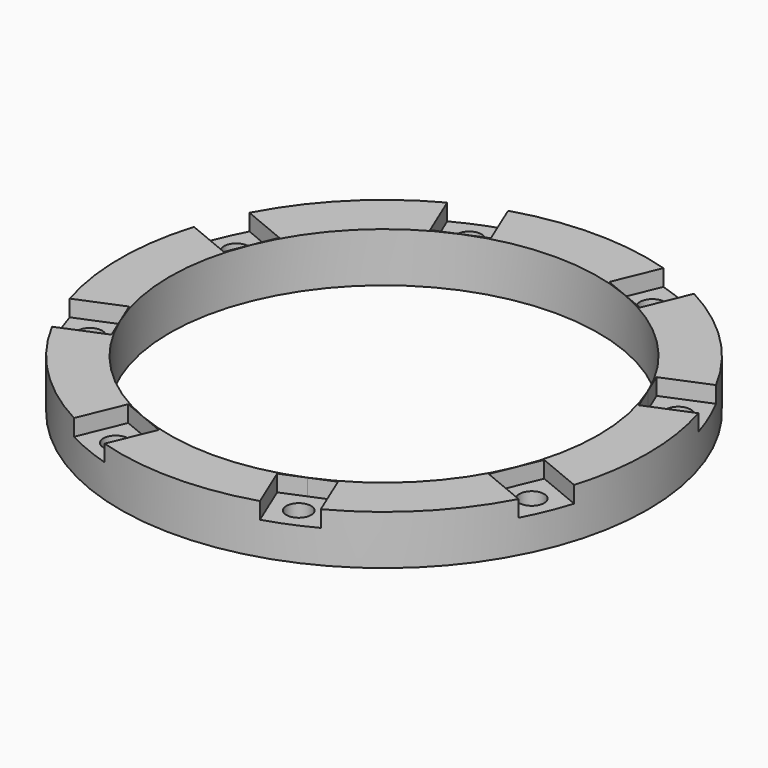
from build123d import *

# Parameters (mm, degrees)
CYLINDER1945_R               = 1.5
CYLINDER1945_DEPTH           = 20
CYLINDER1945_PLACEMENT_ANGLE = 67.5
CYLINDER1943_R               = 1.5
CYLINDER1943_DEPTH           = 20
CYLINDER1943_PLACEMENT_ANGLE = 112.5
CYLINDER1936_R               = 1.5
CYLINDER1936_DEPTH           = 20
CYLINDER1936_PLACEMENT_ANGLE = 157.5
CYLINDER1952_R               = 1.5
CYLINDER1952_DEPTH           = 20
CYLINDER1952_PLACEMENT_ANGLE = 202.5
CYLINDER1946_R               = 1.5
CYLINDER1946_DEPTH           = 20
CYLINDER1946_PLACEMENT_ANGLE = -112.5
CYLINDER1938_R               = 1.5
CYLINDER1938_DEPTH           = 20
CYLINDER1938_PLACEMENT_ANGLE = 67.5
CYLINDER1935_R               = 1.5
CYLINDER1935_DEPTH           = 20
CYLINDER1935_PLACEMENT_ANGLE = 22.5
CYLINDER1941_R               = 1.5
CYLINDER1941_DEPTH           = 20
CYLINDER1941_PLACEMENT_ANGLE = 22.5
BOX442_W                     = 6
BOX442_H                     = 6
BOX442_DEPTH                 = 2
BOX442_PLACEMENT_ANGLE       = 67.5
BOX437_W                     = 6
BOX437_H                     = 6
BOX437_DEPTH                 = 2
BOX437_PLACEMENT_ANGLE       = 112.5
BOX447_W                     = 6
BOX447_H                     = 6
BOX447_DEPTH                 = 2
BOX447_PLACEMENT_ANGLE       = 157.5
BOX445_W                     = 6
BOX445_H                     = 6
BOX445_DEPTH                 = 2
BOX445_PLACEMENT_ANGLE       = 202.5
BOX446_W                     = 6
BOX446_H                     = 6
BOX446_DEPTH                 = 2
BOX446_PLACEMENT_ANGLE       = -112.5
BOX449_W                     = 6
BOX449_H                     = 6
BOX449_DEPTH                 = 2
BOX449_PLACEMENT_ANGLE       = 67.5
BOX440_W                     = 6
BOX440_H                     = 6
BOX440_DEPTH                 = 2
BOX440_PLACEMENT_ANGLE       = 22.5
BOX443_W                     = 6
BOX443_H                     = 6
BOX443_DEPTH                 = 2
BOX443_PLACEMENT_ANGLE       = 22.5
TUBE085_R                    = 32
TUBE085_R_2                  = 26
TUBE085_DEPTH                = 6


with BuildPart() as obj1:
    # Cylinder1945 → Cylinder1945 (new body)
    with BuildSketch(Plane.XY):
        Circle(CYLINDER1945_R)
    extrude(amount=CYLINDER1945_DEPTH)


with BuildPart() as obj1_1:
    # Cylinder1945 placement: moved
    add(obj1.part.moved(Location((11.09782, 26.792506, -10))).rotate(Axis((11.09782, 26.792506, -10), (0, 0, 1)), CYLINDER1945_PLACEMENT_ANGLE))


with BuildPart() as obj2:
    # Cylinder1943 → Cylinder1943 (new body)
    with BuildSketch(Plane.XY):
        Circle(CYLINDER1943_R)
    extrude(amount=CYLINDER1943_DEPTH)


with BuildPart() as obj2_1:
    # Cylinder1943 placement: moved
    add(obj2.part.moved(Location((-11.09782, 26.792506, -10))).rotate(Axis((-11.09782, 26.792506, -10), (0, 0, 1)), CYLINDER1943_PLACEMENT_ANGLE))


with BuildPart() as obj3:
    # Cylinder1936 → Cylinder1936 (new body)
    with BuildSketch(Plane.XY):
        Circle(CYLINDER1936_R)
    extrude(amount=CYLINDER1936_DEPTH)


with BuildPart() as obj3_1:
    # Cylinder1936 placement: moved
    add(obj3.part.moved(Location((-26.792506, 11.09782, -10))).rotate(Axis((-26.792506, 11.09782, -10), (0, 0, 1)), CYLINDER1936_PLACEMENT_ANGLE))


with BuildPart() as obj4:
    # Cylinder1952 → Cylinder1952 (new body)
    with BuildSketch(Plane.XY):
        Circle(CYLINDER1952_R)
    extrude(amount=CYLINDER1952_DEPTH)


with BuildPart() as obj4_1:
    # Cylinder1952 placement: moved
    add(obj4.part.moved(Location((-26.792506, -11.09782, -10))).rotate(Axis((-26.792506, -11.09782, -10), (0, 0, 1)), CYLINDER1952_PLACEMENT_ANGLE))


with BuildPart() as obj5:
    # Cylinder1946 → Cylinder1946 (new body)
    with BuildSketch(Plane.XY):
        Circle(CYLINDER1946_R)
    extrude(amount=CYLINDER1946_DEPTH)


with BuildPart() as obj5_1:
    # Cylinder1946 placement: moved
    add(obj5.part.moved(Location((-11.09782, -26.792506, -10))).rotate(Axis((-11.09782, -26.792506, -10), (0, 0, 1)), CYLINDER1946_PLACEMENT_ANGLE))


with BuildPart() as obj6:
    # Cylinder1938 → Cylinder1938 (new body)
    with BuildSketch(Plane.XY):
        Circle(CYLINDER1938_R)
    extrude(amount=CYLINDER1938_DEPTH)


with BuildPart() as obj6_1:
    # Cylinder1938 placement: moved
    add(obj6.part.moved(Location((11.09782, -26.792506, -10))).rotate(Axis((11.09782, -26.792506, -10), (0, 0, -1)), CYLINDER1938_PLACEMENT_ANGLE))


with BuildPart() as obj7:
    # Cylinder1935 → Cylinder1935 (new body)
    with BuildSketch(Plane.XY):
        Circle(CYLINDER1935_R)
    extrude(amount=CYLINDER1935_DEPTH)


with BuildPart() as obj7_1:
    # Cylinder1935 placement: moved
    add(obj7.part.moved(Location((26.792506, -11.09782, -10))).rotate(Axis((26.792506, -11.09782, -10), (0, 0, -1)), CYLINDER1935_PLACEMENT_ANGLE))


with BuildPart() as compound883:
    # Cylinder1941 → Cylinder1941 (new body)
    with BuildSketch(Plane.XY):
        Circle(CYLINDER1941_R)
    extrude(amount=CYLINDER1941_DEPTH)


with BuildPart() as compound883_1:
    # Cylinder1941 placement: moved
    add(compound883.part.moved(Location((26.792506, 11.09782, -10))).rotate(Axis((26.792506, 11.09782, -10), (0, 0, 1)), CYLINDER1941_PLACEMENT_ANGLE))

    # Compound883: union obj1, obj2, obj3, obj4, obj5, obj6, obj7
    add(obj1_1.part)
    add(obj2_1.part)
    add(obj3_1.part)
    add(obj4_1.part)
    add(obj5_1.part)
    add(obj6_1.part)
    add(obj7_1.part)


with BuildPart() as krychle442:
    # Box442 → Box442 (new body)
    with BuildSketch(Plane.XY):
        with Locations((3, 3)):
            Rectangle(BOX442_W, BOX442_H)
    extrude(amount=BOX442_DEPTH)


with BuildPart() as krychle442_1:
    # Box442 placement: moved
    add(krychle442.part.moved(Location((12.721408, 22.872818, -2))).rotate(Axis((12.721408, 22.872818, -2), (0, 0, 1)), BOX442_PLACEMENT_ANGLE))


with BuildPart() as krychle437:
    # Box437 → Box437 (new body)
    with BuildSketch(Plane.XY):
        with Locations((3, 3)):
            Rectangle(BOX437_W, BOX437_H)
    extrude(amount=BOX437_DEPTH)


with BuildPart() as krychle437_1:
    # Box437 placement: moved
    add(krychle437.part.moved(Location((-7.178131, 25.168918, -2))).rotate(Axis((-7.178131, 25.168918, -2), (0, 0, 1)), BOX437_PLACEMENT_ANGLE))


with BuildPart() as krychle447:
    # Box447 → Box447 (new body)
    with BuildSketch(Plane.XY):
        with Locations((3, 3)):
            Rectangle(BOX447_W, BOX447_H)
    extrude(amount=BOX447_DEPTH)


with BuildPart() as krychle447_1:
    # Box447 placement: moved
    add(krychle447.part.moved(Location((-22.872818, 12.721408, -2))).rotate(Axis((-22.872818, 12.721408, -2), (0, 0, 1)), BOX447_PLACEMENT_ANGLE))


with BuildPart() as krychle445:
    # Box445 → Box445 (new body)
    with BuildSketch(Plane.XY):
        with Locations((3, 3)):
            Rectangle(BOX445_W, BOX445_H)
    extrude(amount=BOX445_DEPTH)


with BuildPart() as krychle445_1:
    # Box445 placement: moved
    add(krychle445.part.moved(Location((-25.168918, -7.178131, -2))).rotate(Axis((-25.168918, -7.178131, -2), (0, 0, 1)), BOX445_PLACEMENT_ANGLE))


with BuildPart() as krychle446:
    # Box446 → Box446 (new body)
    with BuildSketch(Plane.XY):
        with Locations((3, 3)):
            Rectangle(BOX446_W, BOX446_H)
    extrude(amount=BOX446_DEPTH)


with BuildPart() as krychle446_1:
    # Box446 placement: moved
    add(krychle446.part.moved(Location((-12.721408, -22.872818, -2))).rotate(Axis((-12.721408, -22.872818, -2), (0, 0, 1)), BOX446_PLACEMENT_ANGLE))


with BuildPart() as krychle449:
    # Box449 → Box449 (new body)
    with BuildSketch(Plane.XY):
        with Locations((3, 3)):
            Rectangle(BOX449_W, BOX449_H)
    extrude(amount=BOX449_DEPTH)


with BuildPart() as krychle449_1:
    # Box449 placement: moved
    add(krychle449.part.moved(Location((7.178131, -25.168918, -2))).rotate(Axis((7.178131, -25.168918, -2), (0, 0, -1)), BOX449_PLACEMENT_ANGLE))


with BuildPart() as krychle440:
    # Box440 → Box440 (new body)
    with BuildSketch(Plane.XY):
        with Locations((3, 3)):
            Rectangle(BOX440_W, BOX440_H)
    extrude(amount=BOX440_DEPTH)


with BuildPart() as krychle440_1:
    # Box440 placement: moved
    add(krychle440.part.moved(Location((22.872818, -12.721408, -2))).rotate(Axis((22.872818, -12.721408, -2), (0, 0, -1)), BOX440_PLACEMENT_ANGLE))


with BuildPart() as compound876:
    # Box443 → Box443 (new body)
    with BuildSketch(Plane.XY):
        with Locations((3, 3)):
            Rectangle(BOX443_W, BOX443_H)
    extrude(amount=BOX443_DEPTH)


with BuildPart() as compound876_1:
    # Box443 placement: moved
    add(compound876.part.moved(Location((25.168918, 7.178131, -2))).rotate(Axis((25.168918, 7.178131, -2), (0, 0, 1)), BOX443_PLACEMENT_ANGLE))

    # Compound876: union Krychle442, Krychle437, Krychle447, Krychle445, Krychle446, Krychle449, Krychle440
    add(krychle442_1.part)
    add(krychle437_1.part)
    add(krychle447_1.part)
    add(krychle445_1.part)
    add(krychle446_1.part)
    add(krychle449_1.part)
    add(krychle440_1.part)


with BuildPart() as cut519:
    # Tube085 → Tube085 (new body)
    with BuildSketch(Plane.XY.offset(-6)):
        Circle(TUBE085_R)
        Circle(TUBE085_R_2, mode=Mode.SUBTRACT)
    extrude(amount=TUBE085_DEPTH)

    # Cut523: cut Compound876
    add(compound876_1.part, mode=Mode.SUBTRACT)

    # Cut519: cut Compound883
    add(compound883_1.part, mode=Mode.SUBTRACT)


solid = cut519.part
